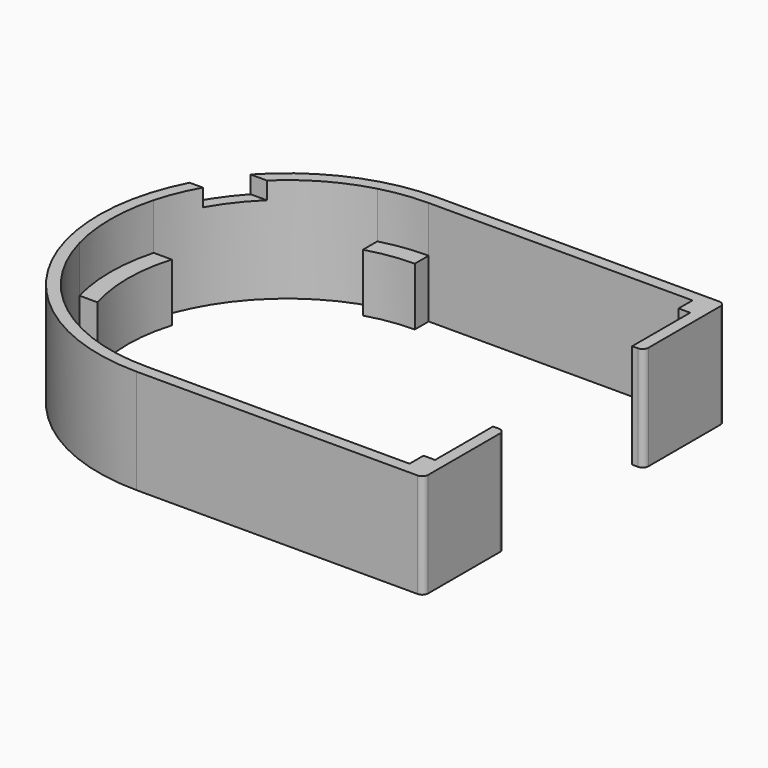
from build123d import *

# Parameters (mm, degrees)
F1_DEPTH = 18
F2_R     = 1
F3_DEPTH = 10
F5_DEPTH = 3


with BuildPart() as f1:
    # F0 (on Top) → F1 (new body)
    with BuildSketch(Plane.XY):
        with BuildLine():
            Line((49.5, -32.5), (49.5, -15))
            Line((49.5, -15), (47.5, -15))
            Line((47.5, -15), (47.5, -27.5))
            Line((47.5, -27.5), (45.5, -27.5))
            Line((45.5, -27.5), (45.5, -30.5))
            Line((45.5, -30.5), (0, -30.5))
            ThreePointArc((0, -30.5), (-4.0354787933, -30.2318525881), (-8, -29.4321253055))
            ThreePointArc((-8, -29.4321253055), (-21.5667568262, -21.5667568262), (-29.4321253055, -8))
            ThreePointArc((-29.4321253055, -8), (-30.5, 0), (-29.4321253055, 8))
            ThreePointArc((-29.4321253055, 8), (-21.5667568262, 21.5667568262), (-8, 29.4321253055))
            ThreePointArc((-8, 29.4321253055), (-4.0354787933, 30.2318525881), (0, 30.5))
            Line((0, 30.5), (45.5, 30.5))
            Line((45.5, 30.5), (45.5, 27.5))
            Line((45.5, 27.5), (47.5, 27.5))
            Line((47.5, 27.5), (47.5, 15))
            Line((47.5, 15), (49.5, 15))
            Line((49.5, 15), (49.5, 32.5))
            Line((49.5, 32.5), (0, 32.5))
            ThreePointArc((0, 32.5), (-32.5, 0), (0, -32.5))
            Line((0, -32.5), (49.5, -32.5))
        make_face()
        with BuildLine():
            Line((49.5, -32.5), (49.5, -15))
            Line((49.5, -15), (47.5, -15))
            Line((47.5, -15), (47.5, -27.5))
            Line((47.5, -27.5), (45.5, -27.5))
            Line((45.5, -27.5), (45.5, -30.5))
            Line((45.5, -30.5), (0, -30.5))
            ThreePointArc((0, -30.5), (-4.0354787933, -30.2318525881), (-8, -29.4321253055))
            ThreePointArc((-8, -29.4321253055), (-21.5667568262, -21.5667568262), (-29.4321253055, -8))
            ThreePointArc((-29.4321253055, -8), (-30.5, 0), (-29.4321253055, 8))
            ThreePointArc((-29.4321253055, 8), (-21.5667568262, 21.5667568262), (-8, 29.4321253055))
            ThreePointArc((-8, 29.4321253055), (-4.0354787933, 30.2318525881), (0, 30.5))
            Line((0, 30.5), (45.5, 30.5))
            Line((45.5, 30.5), (45.5, 27.5))
            Line((45.5, 27.5), (47.5, 27.5))
            Line((47.5, 27.5), (47.5, 15))
            Line((47.5, 15), (49.5, 15))
            Line((49.5, 15), (49.5, 32.5))
            Line((49.5, 32.5), (0, 32.5))
            ThreePointArc((0, 32.5), (-32.5, 0), (0, -32.5))
            Line((0, -32.5), (49.5, -32.5))
        make_face()
        with BuildLine():
            Line((49.5, -32.5), (49.5, -15))
            Line((49.5, -15), (47.5, -15))
            Line((47.5, -15), (47.5, -27.5))
            Line((47.5, -27.5), (45.5, -27.5))
            Line((45.5, -27.5), (45.5, -30.5))
            Line((45.5, -30.5), (0, -30.5))
            ThreePointArc((0, -30.5), (-4.0354787933, -30.2318525881), (-8, -29.4321253055))
            ThreePointArc((-8, -29.4321253055), (-21.5667568262, -21.5667568262), (-29.4321253055, -8))
            ThreePointArc((-29.4321253055, -8), (-30.5, 0), (-29.4321253055, 8))
            ThreePointArc((-29.4321253055, 8), (-21.5667568262, 21.5667568262), (-8, 29.4321253055))
            ThreePointArc((-8, 29.4321253055), (-4.0354787933, 30.2318525881), (0, 30.5))
            Line((0, 30.5), (45.5, 30.5))
            Line((45.5, 30.5), (45.5, 27.5))
            Line((45.5, 27.5), (47.5, 27.5))
            Line((47.5, 27.5), (47.5, 15))
            Line((47.5, 15), (49.5, 15))
            Line((49.5, 15), (49.5, 32.5))
            Line((49.5, 32.5), (0, 32.5))
            ThreePointArc((0, 32.5), (-32.5, 0), (0, -32.5))
            Line((0, -32.5), (49.5, -32.5))
        make_face()
    extrude(amount=F1_DEPTH)

    # F2
    f2_edges = [f1.edges().sort_by_distance(p)[0] for p in [
        (49.5, 15, 9),
        (49.5, -15, 9),
        (49.5, 32.5, 9),
        (49.5, -32.5, 9),
    ]]
    fillet(f2_edges, radius=F2_R)

    # F0 (on Top) → F3 (join)
    with BuildSketch(Plane.XY):
        with BuildLine():
            ThreePointArc((0, 30.5), (-4.0354787933, 30.2318525881), (-8, 29.4321253055))
            Line((-8, 29.4321253055), (-8, 26.3106442338))
            ThreePointArc((-8, 26.3106442338), (-4.0439636231, 27.2010359769), (0, 27.5))
            Line((0, 27.5), (0, 30.5))
        make_face()
        with BuildLine():
            ThreePointArc((-29.4321253055, 8), (-30.5, 0), (-29.4321253055, -8))
            Line((-29.4321253055, -8), (-26.3106442338, -8))
            ThreePointArc((-26.3106442338, -8), (-27.5, 0), (-26.3106442338, 8))
            Line((-26.3106442338, 8), (-29.4321253055, 8))
        make_face()
        with BuildLine():
            ThreePointArc((-8, -29.4321253055), (-4.0354787933, -30.2318525881), (0, -30.5))
            Line((0, -30.5), (0, -27.5))
            ThreePointArc((0, -27.5), (-4.0439636231, -27.2010359769), (-8, -26.3106442338))
            Line((-8, -26.3106442338), (-8, -29.4321253055))
        make_face()
    extrude(amount=F3_DEPTH)

    # F4 (on face) → F5 (cut)
    with BuildSketch(Plane.XY.offset(18)):
        with BuildLine():
            Line((-28.8314064867, 15), (-26.5565434498, 15))
            ThreePointArc((-26.5565434498, 15), (-24.0961320452, 18.698299935), (-21.1246301743, 22))
            Line((-21.1246301743, 22), (-23.9217474278, 22))
            ThreePointArc((-23.9217474278, 22), (-26.6077772837, 18.6621592539), (-28.8314064867, 15))
        make_face()
    extrude(amount=-F5_DEPTH, mode=Mode.SUBTRACT)


solid = f1.part
